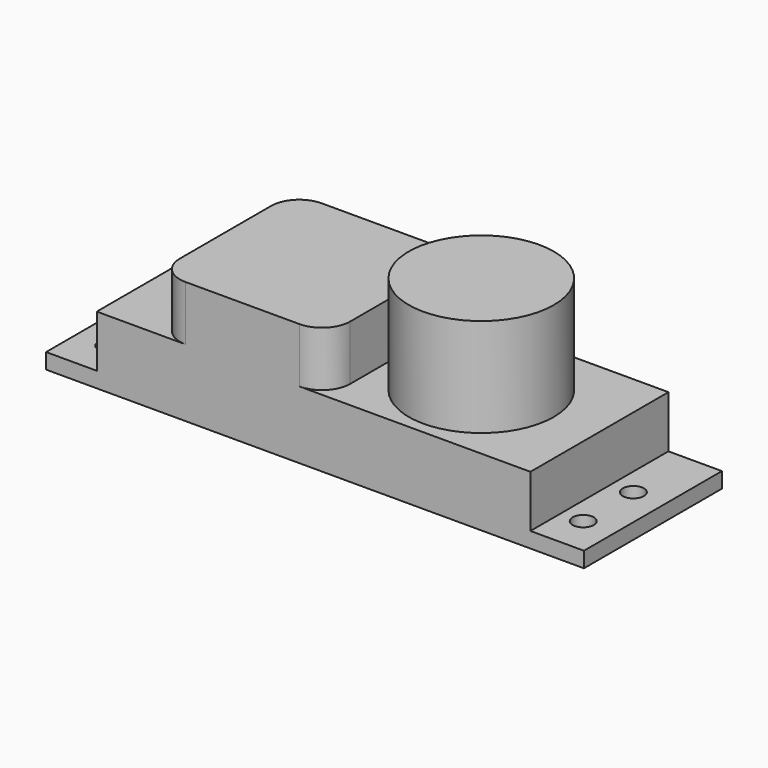
from build123d import *

# Parameters (mm, degrees)
F0_W     = 38.2
F0_H     = 12.25
F0_R     = 0.75
F1_DEPTH = 1.1
F2_W     = 30.8
F2_H     = 12.25
F3_DEPTH = 3.7
F5_DEPTH = 3.9
F4_R     = 5.15
F6_DEPTH = 7


with BuildPart() as f1:
    # F0 (on Top) → F1 (new body)
    with BuildSketch(Plane.XY):
        Rectangle(F0_W, F0_H)
        with Locations((-16.85, -3.375)):
            Circle(F0_R, mode=Mode.SUBTRACT)
        with Locations((16.85, -3.375)):
            Circle(F0_R, mode=Mode.SUBTRACT)
        with Locations((-16.85, 1.075)):
            Circle(F0_R, mode=Mode.SUBTRACT)
        with Locations((16.85, 1.075)):
            Circle(F0_R, mode=Mode.SUBTRACT)
    extrude(amount=F1_DEPTH)

    # F2 (on face) → F3 (join)
    with BuildSketch(Plane.XY.offset(1.1)):
        with Locations((-0.1, 0)):
            Rectangle(F2_W, F2_H)
    extrude(amount=F3_DEPTH)

    # F4 (on face) → F5 (join)
    with BuildSketch(Plane.XY.offset(4.8)):
        with BuildLine():
            Line((-1.1, 5.975), (-9.2, 5.975))
            ThreePointArc((-9.2, 5.975), (-10.614214, 5.389214), (-11.2, 3.975))
            Line((-11.2, 3.975), (-11.2, -4.125))
            ThreePointArc((-11.2, -4.125), (-10.614214, -5.539214), (-9.2, -6.125))
            Line((-9.2, -6.125), (-1.1, -6.125))
            ThreePointArc((-1.1, -6.125), (0.314214, -5.539214), (0.9, -4.125))
            Line((0.9, -4.125), (0.9, 3.975))
            ThreePointArc((0.9, 3.975), (0.314214, 5.389214), (-1.1, 5.975))
        make_face()
    extrude(amount=F5_DEPTH)

    # F4 (on face) → F6 (join)
    with BuildSketch(Plane.XY.offset(4.8)):
        with Locations((7.05, -0.175)):
            Circle(F4_R)
    extrude(amount=F6_DEPTH)


solid = f1.part
